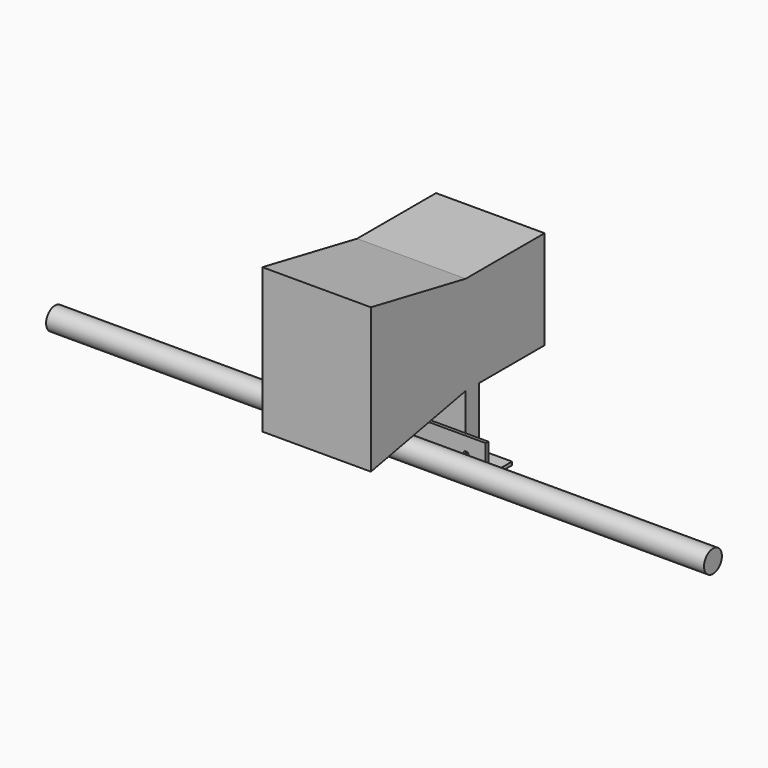
from build123d import *

# Parameters (mm, degrees)
F1_R     = 17
F2_DEPTH = 500
F3_W     = 5
F3_H     = 45
F3_H_2   = 5
F3_W_2   = 25.8223979548
F3_W_3   = 9.1776020452
F3_W_4   = 10
F4_DEPTH = 125
F3_H_3   = 21.9
F5_DEPTH = 82.5
F7_D     = 6.5
F9_D     = 8.5
F9_DEPTH = 6
F9_TIP   = 2.5536576309


with BuildPart() as f2:
    # F1 (on Right) → F2 (new body, symmetric)
    with BuildSketch(Plane.YZ):
        with Locations((-17, 39)):
            Circle(F1_R)
    extrude(amount=F2_DEPTH, both=True)


with BuildPart() as f4:
    # F3 (on Right) → F4 (new body, symmetric)
    with BuildSketch(Plane.YZ):
        with Locations((22.5, 37.5)):
            Rectangle(F3_W, F3_H)
        with Locations((22.5, 12.5)):
            Rectangle(F3_W, F3_H_2)
        with Locations((57.0888010226, 12.5)):
            Rectangle(F3_W_2, F3_H_2)
        with Locations((29.5888010226, 12.5)):
            Rectangle(F3_W_3, F3_H_2)
        with Locations((39.1776020452, 12.5)):
            Rectangle(F3_W_4, F3_H_2)
    extrude(amount=F4_DEPTH, both=True)

    # F7 (through all)
    with Locations(Plane(origin=(0, 0, 10), x_dir=(1, 0, 0), z_dir=(0, 0, -1))):
        with Locations((110, -45), (0, -45), (-110, -45), (30, -45), (-30, -45)):
            Hole(F7_D / 2)

    # F9
    with Locations(Plane(origin=(0, 25, 0), x_dir=(-1, 0, 0), z_dir=(0, 1, 0))):
        with Locations((-95, 35), (95, 35)):
            Hole(F9_D / 2, depth=F9_DEPTH)
            with Locations((0, 0, -(F9_DEPTH + F9_TIP / 2))):  # 118° drill point
                Cone(0, F9_D / 2, F9_TIP, mode=Mode.SUBTRACT)


with BuildPart() as f5:
    # F3 (on Right) → F5 (new body, symmetric)
    with BuildSketch(Plane.YZ):
        Polygon((-145, 75), (35, 110), (35, 260), (-145, 295), align=None)
        Polygon((35, 260), (35, 110), (60, 110), (185, 110), (185, 260), align=None)
        Polygon((44.1776020452, 37), (44.1776020452, 15.1), (60, 15.1), (60, 110), (35, 110), (35, 37), align=None)
        with Locations((39.5888010226, 26.05)):
            Rectangle(F3_W_3, F3_H_3)
    extrude(amount=F5_DEPTH, both=True)


solid = Compound([f2.part, f4.part, f5.part])
